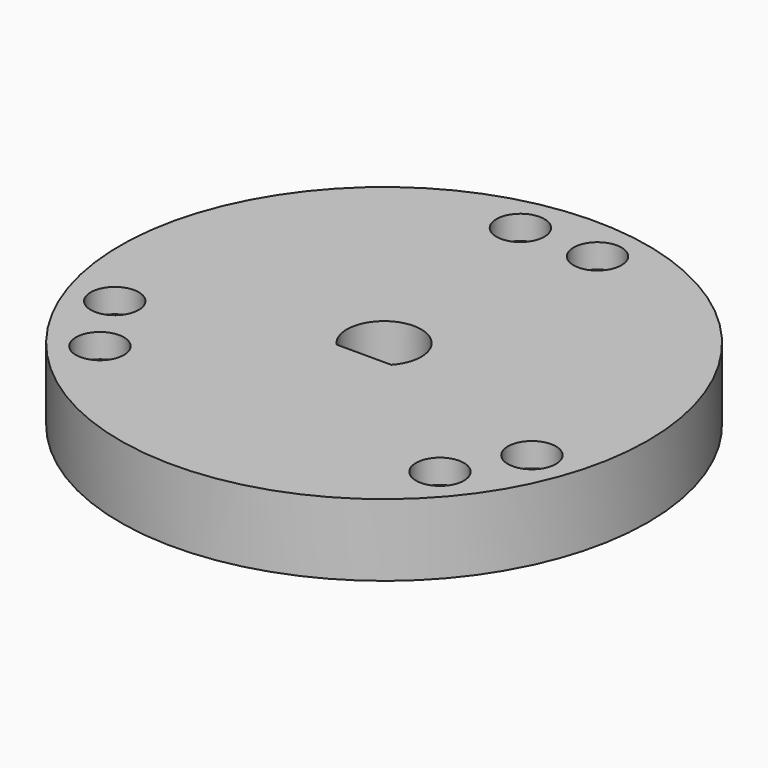
from build123d import *

# Parameters (mm, degrees)
F0_R     = 11
F1_DEPTH = 3
F3_DEPTH = 3
F4_R     = 1
F5_DEPTH = 1


with BuildPart() as f1:
    # F0 (on Top) → F1 (new body)
    with BuildSketch(Plane.XY):
        Circle(F0_R)
    extrude(amount=F1_DEPTH)

    # F2 (on face) → F3 (cut)
    with BuildSketch(Plane.XY.offset(3)):
        with BuildLine():
            ThreePointArc((1.140175, -1.05), (0, 1.55), (-1.140175, -1.05))
            Line((-1.140175, -1.05), (1.140175, -1.05))
        make_face()
    extrude(amount=-F3_DEPTH, mode=Mode.SUBTRACT)

    # F4 (on face) → F5 (cut)
    with BuildSketch(Plane.XY.offset(3)):
        with Locations((-1.606246, 9.109472)):
            Circle(F4_R)
        with Locations((-7.085911, -5.945785)):
            Circle(F4_R)
        with Locations((1.606246, 9.109472)):
            Circle(F4_R)
        with Locations((-8.692157, -3.163686)):
            Circle(F4_R)
        with Locations((8.692157, -3.163686)):
            Circle(F4_R)
        with Locations((7.085911, -5.945785)):
            Circle(F4_R)
    extrude(amount=-F5_DEPTH, mode=Mode.SUBTRACT)


solid = f1.part
